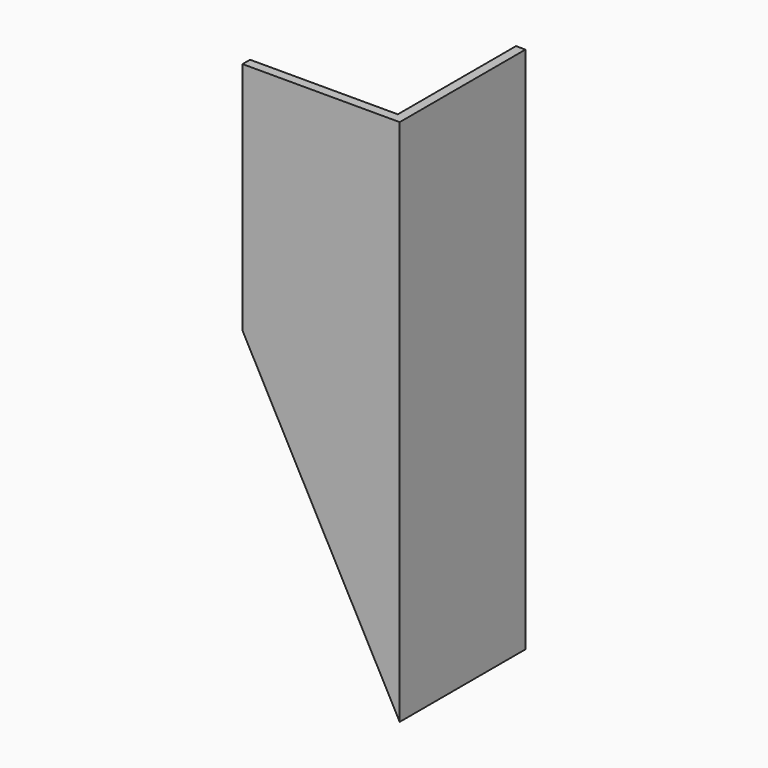
from build123d import *

# Parameters (mm, degrees)
F0_W     = 1.5
F0_H     = 1.5
F0_H_2   = 23.5
F0_W_2   = 23.5
F1_DEPTH = 84
F3_DEPTH = 25


with BuildPart() as f1:
    # F0 (on Top) → F1 (new body)
    with BuildSketch(Plane.XY):
        with Locations((11.75, 0)):
            Rectangle(F0_W, F0_H)
        with Locations((11.75, 12.5)):
            Rectangle(F0_W, F0_H_2)
        with Locations((-0.75, 0)):
            Rectangle(F0_W_2, F0_H)
    extrude(amount=-F1_DEPTH)

    # F2 (on face) → F3 (cut)
    with BuildSketch(Plane.XZ.offset(0.75)):
        Polygon((-12.5, -84), (12.5, -84), (-12.5, -37.333333), align=None)
    extrude(amount=-F3_DEPTH, mode=Mode.SUBTRACT)


solid = f1.part
